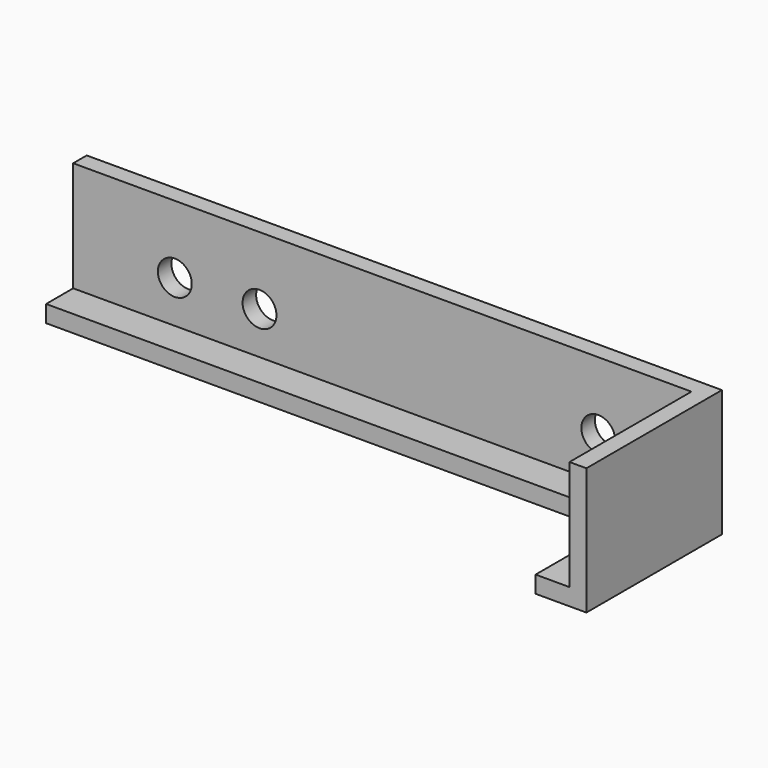
from build123d import *

# Parameters (mm, degrees)
SKETCH_W        = 75
SKETCH_H        = 20
PAD_DEPTH       = 15
SKETCH001_W     = 83.048119
SKETCH001_H     = 28.364262
POCKET_DEPTH    = 15.001
SKETCH002_W     = 73.99276
SKETCH002_H     = 21.880196
POCKET001_DEPTH = 13
SKETCH003_R     = 2
POCKET002_DEPTH = 5


with BuildPart() as part:
    # Sketch → Pad (new body)
    with BuildSketch(Plane.XY):
        with Locations((-37.5, -10)):
            Rectangle(SKETCH_W, SKETCH_H)
    extrude(amount=PAD_DEPTH)

    # Sketch001 (on Face6 of Pad) → Pocket (cut, through all)
    with BuildSketch(Plane.XY.offset(15)):
        with Locations((-47.524059, -20.182131)):
            Rectangle(SKETCH001_W, SKETCH001_H)
    extrude(amount=-POCKET_DEPTH, mode=Mode.SUBTRACT)

    # Sketch002 (on Face5 of Pocket) → Pocket001 (cut)
    with BuildSketch(Plane.XY.offset(15)):
        with Locations((-38.99638, -12.940098)):
            Rectangle(SKETCH002_W, SKETCH002_H)
    extrude(amount=-POCKET001_DEPTH, mode=Mode.SUBTRACT)

    # Sketch003 (on Face9 of Pocket001) → Pocket002 (cut)
    with BuildSketch(Plane.XZ.offset(2)):
        with Locations((-13, 7)):
            Circle(SKETCH003_R)
        with Locations((-63, 7)):
            Circle(SKETCH003_R)
        with Locations((-53, 7)):
            Circle(SKETCH003_R)
    extrude(amount=-POCKET002_DEPTH, mode=Mode.SUBTRACT)


solid = part.part
